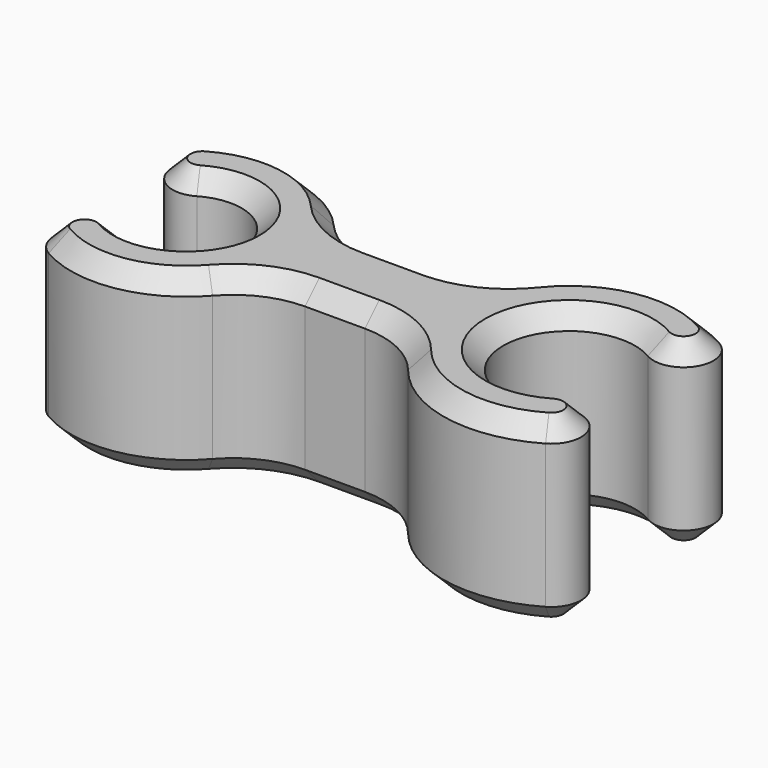
from build123d import *

# Parameters (mm, degrees)
PAD_DEPTH    = 6
CHAMFER_SIZE = 0.6


with BuildPart() as part:
    # Sketch → Pad (new body)
    with BuildSketch(Plane.XY):
        with BuildLine():
            ThreePointArc((7.729552, 1.9), (9.097303, 2.259521), (8.737782, 3.627273))
            ThreePointArc((8.737782, 3.627273), (5.853481, 4.129368), (3.341874, 2.625))
            ThreePointArc((1, 1.5), (2.299038, 1.795837), (3.341874, 2.625))
            Line((1, 1.5), (-1, 1.5))
            ThreePointArc((-3.261843, 2.529197), (-2.242496, 1.769395), (-1, 1.5))
            ThreePointArc((-3.261843, 2.529197), (-5.535711, 3.798298), (-8.097261, 3.32973))
            ThreePointArc((-8.097261, 3.32973), (-8.460121, 1.96286), (-7.093251, 1.6))
            ThreePointArc((-7.093251, -1.6), (-4.314543, 0), (-7.093251, 1.6))
            ThreePointArc((-7.093251, -1.6), (-8.460121, -1.96286), (-8.097261, -3.32973))
            ThreePointArc((-8.097261, -3.32973), (-5.535711, -3.798298), (-3.261843, -2.529197))
            ThreePointArc((-1, -1.5), (-2.242496, -1.769395), (-3.261843, -2.529197))
            Line((1, -1.5), (-1, -1.5))
            ThreePointArc((3.341874, -2.625), (2.299038, -1.795837), (1, -1.5))
            ThreePointArc((3.341874, -2.625), (5.853481, -4.129368), (8.737782, -3.627273))
            ThreePointArc((8.737782, -3.627273), (9.097303, -2.259521), (7.729551, -1.9))
            ThreePointArc((7.729552, 1.9), (4.420498, 0), (7.729551, -1.9))
        make_face()
    extrude(amount=PAD_DEPTH)

    # Chamfer
    chamfer_edges = [part.edges().sort_by_distance(p)[0] for p in [
        (0, -1.5, 6),
        (0, -1.5, 0),
    ]]
    chamfer(chamfer_edges, length=CHAMFER_SIZE)


solid = part.part
